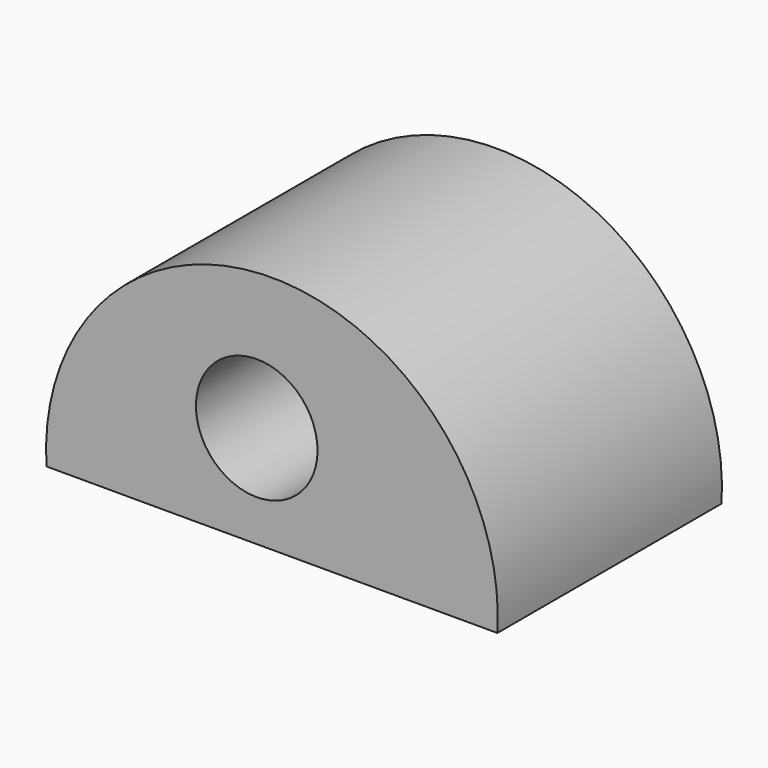
from build123d import *

# Parameters (mm, degrees)
F0_R     = 5.511176
F1_DEPTH = 25.4


with BuildPart() as f1:
    # F0 (on Front) → F1 (new body)
    with BuildSketch(Plane.XZ):
        with BuildLine():
            ThreePointArc((21.812579, 0), (1.374743, 21.721134), (-19.063093, 0))
            Line((-19.063093, 0), (21.812579, 0))
        make_face()
        with Locations((0, 9.256598)):
            Circle(F0_R, mode=Mode.SUBTRACT)
    extrude(amount=F1_DEPTH)


solid = f1.part
